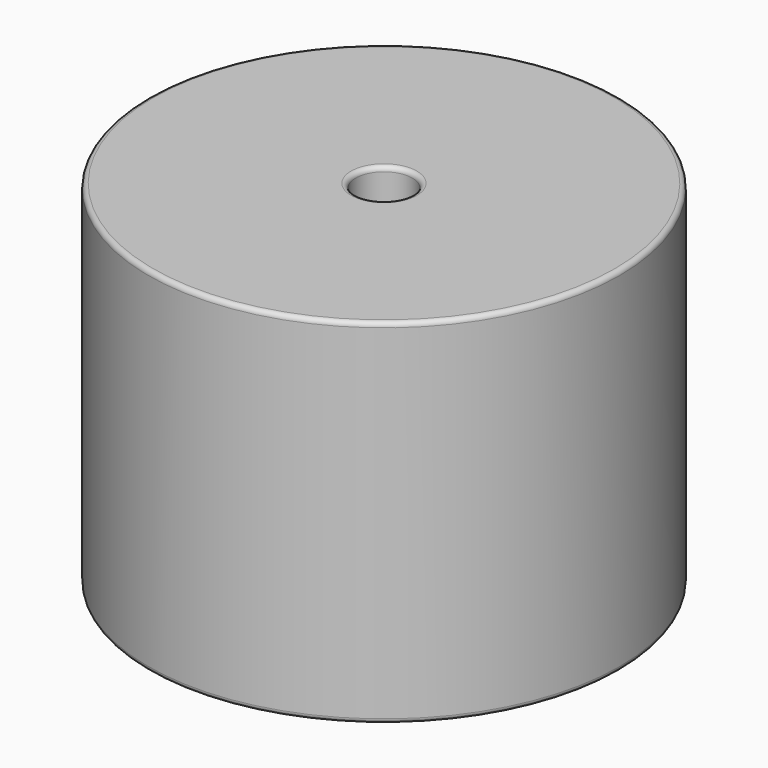
from build123d import *

# Parameters (mm, degrees)
SKETCH_R          = 25.4
SKETCH_R_2        = 3.05
PAD_DEPTH         = 38.1
FILLET_R          = 0.5
SKETCH001_R       = 0.9
PAD001_DEPTH      = 19.05
PAD001_DEPTH_BACK = 3.5


with BuildPart() as fillet_body:
    # Sketch → Pad (new body)
    with BuildSketch(Plane.XY.offset(0.1)):
        with Locations((17.905, 0)):
            Circle(SKETCH_R)
        with Locations((17.905, 0)):
            Circle(SKETCH_R_2, mode=Mode.SUBTRACT)
    extrude(amount=PAD_DEPTH)

    # Fillet
    fillet_edges = [fillet_body.edges().sort_by_distance(p)[0] for p in [
        (14.855, 0, 38.2),
        (-7.495, 0, 38.2),
        (-7.495, 0, 0.1),
    ]]
    fillet(fillet_edges, radius=FILLET_R)


with BuildPart() as obj1:
    # Sketch001 → Pad001 (new body, two sides)
    with BuildSketch(Plane.XY.offset(0.5)) as pad001_sk:
        Circle(SKETCH001_R)
        with Locations((35.81, 0)):
            Circle(SKETCH001_R)
    extrude(amount=PAD001_DEPTH)
    extrude(pad001_sk.sketch, amount=-PAD001_DEPTH_BACK)

    # obj1: union Fillet body
    add(fillet_body.part)


solid = obj1.part
